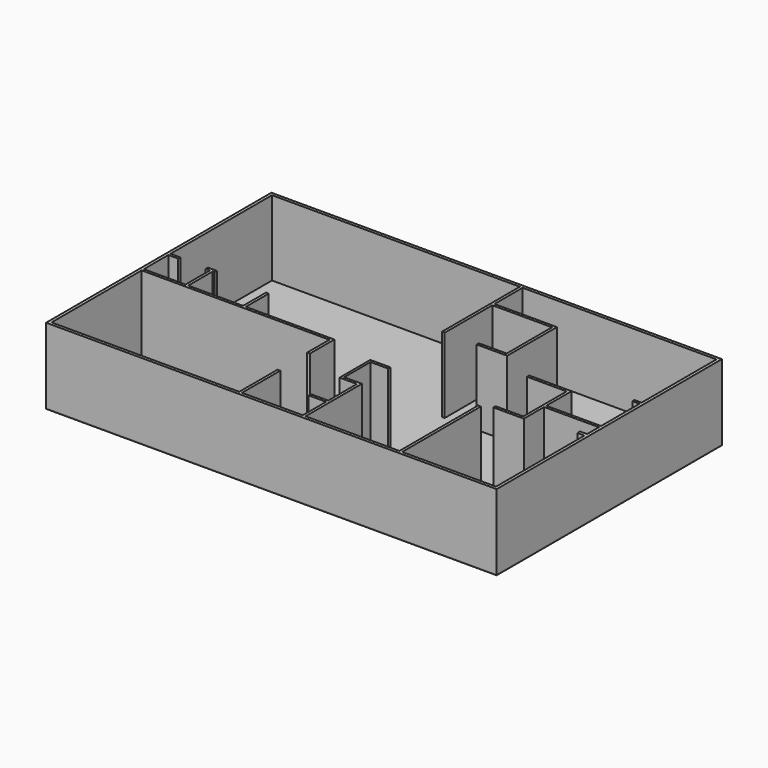
from build123d import *

# Parameters (mm, degrees)
F0_W     = 14630.4
F0_H     = 9144
F1_DEPTH = 25.4
F2_W     = 14630.4
F2_H     = 9144
F2_W_2   = 88.9
F2_H_2   = 3194.2168514252
F2_H_3   = 1929.7631978989
F2_W_3   = 1779.7346710205
F2_H_4   = 88.9
F2_H_5   = 1554.3824474335
F2_W_4   = 1289.2332969666
F2_H_6   = 1164.2087398529
F2_H_7   = 1141.2822940826
F2_H_8   = 994.9972226143
F2_H_9   = 943.2841579437
F2_W_5   = 77.8362154961
F2_H_10  = 1067.5071022034
F2_H_11  = 929.2460680008
F2_W_6   = 903.2808242798
F2_W_7   = 903.0658233643
F2_W_8   = 318.0981277466
F2_W_9   = 229.1255592346
F2_H_12  = 107.0315241814
F2_H_13  = 82.2870731354
F3_DEPTH = 2438.4


with BuildPart() as f1:
    # F0 (on Top) → F1 (new body)
    with BuildSketch(Plane.XY):
        Rectangle(F0_W, F0_H)
    extrude(amount=F1_DEPTH)


with BuildPart() as f3:
    # F2 (on face) → F3 (new body)
    with BuildSketch(Plane.XY.offset(25.4)):
        Rectangle(F2_W, F2_H)
        Polygon((-7216.775, 356.8222226143), (-7216.775, 4473.575), (831.9140672684, 4473.575), (920.8140672684, 4473.575), (7216.775, 4473.575), (7216.775, 1432.7878952026), (7216.775, 1350.5008220673), (7216.775, -209.6492750645), (7216.775, -298.5492750645), (7216.775, -777.0798206329), (7216.775, -884.1113448143), (7216.775, -4473.575), (4168.775, -4473.575), (4079.875, -4473.575), (1031.875, -4473.575), (942.975, -4473.575), (-1031.875, -4473.575), (-1120.775, -4473.575), (-7216.775, -4473.575), (-7216.775, -815.975), (-7216.775, -727.075), (-7216.775, 267.9222226143), align=None, mode=Mode.SUBTRACT)
        Polygon((-5864.2349243164, -727.075), (-7216.775, -727.075), (-7216.775, -815.975), (-1120.775, -815.975), (-1120.775, -727.075), (-3905.3846298218, -727.075), (-3994.2846298218, -727.075), (-5775.3349243164, -727.075), align=None)
        with Locations((4124.325, -2876.4665742874)):
            Rectangle(F2_W_2, F2_H_2)
        Polygon((920.8140672684, 3332.2927059174), (831.9140672684, 3332.2927059174), (831.9140672684, 3243.3927059174), (920.8140672684, 3243.3927059174), (2860.675, 3243.3927059174), (2860.675, 3332.2927059174), align=None)
        Polygon((2949.575, 3332.2927059174), (2860.675, 3332.2927059174), (2860.675, 3243.3927059174), (2860.675, 1402.5295080185), (2860.675, 1313.6295080185), (2949.575, 1313.6295080185), align=None)
        Polygon((5437.0403289795, -298.5492750645), (5437.0403289795, -209.6492750645), (5437.0403289795, 815.975), (5348.1403289795, 815.975), (5348.1403289795, 727.075), (5348.1403289795, -1031.875), (5348.1403289795, -1120.775), (5437.0403289795, -1120.775), align=None)
        with Locations((876.3640672684, 2278.5111069679)):
            Rectangle(F2_W_2, F2_H_3)
        with Locations((6326.9076644897, -254.0992750645)):
            Rectangle(F2_W_3, F2_H_4)
        with Locations((-1076.325, -3696.3837762833)):
            Rectangle(F2_W_2, F2_H_5)
        with Locations((4703.5236804962, 771.525)):
            Rectangle(F2_W_4, F2_H_4)
        with Locations((987.425, -2859.2864721298)):
            Rectangle(F2_W_2, F2_H_6)
        with Locations((876.3640672684, 3902.9338529587)):
            Rectangle(F2_W_2, F2_H_7)
        with Locations((-5819.7849243164, -229.5763886929)):
            Rectangle(F2_W_2, F2_H_8)
        Polygon((-1120.775, -727.075), (-1120.775, -815.975), (-1120.775, -1715.415596962), (-1031.875, -1715.415596962), (-1031.875, -727.075), align=None)
        with Locations((987.425, -4001.9329210281)):
            Rectangle(F2_W_2, F2_H_9)
        with Locations((419.4595217705, -1654.5285511017)):
            Rectangle(F2_W_5, F2_H_10)
        with Locations((-3949.8346298218, -262.4519659996)):
            Rectangle(F2_W_2, F2_H_11)
        with Locations((4896.4999168396, -1076.325)):
            Rectangle(F2_W_6, F2_H_4)
        with Locations((2409.1420883179, 1358.0795080185)):
            Rectangle(F2_W_7, F2_H_4)
        Polygon((380.5414140224, -3530.2908420563), (942.975, -3530.2908420563), (1031.875, -3530.2908420563), (1031.875, -3441.3908420563), (942.975, -3441.3908420563), (380.5414140224, -3441.3908420563), align=None)
        Polygon((942.975, -2277.1821022034), (1031.875, -2277.1821022034), (1031.875, -2188.2821022034), (458.3776295185, -2188.2821022034), (380.5414140224, -2188.2821022034), (380.5414140224, -2277.1821022034), align=None)
        Polygon((380.5414140224, -1120.775), (458.3776295185, -1120.775), (1031.875, -1120.775), (1031.875, -1031.875), (380.5414140224, -1031.875), align=None)
        with Locations((-7057.7259361267, 312.3722226143)):
            Rectangle(F2_W_8, F2_H_4)
        Polygon((-6003.3254623413, 267.9222226143), (-5864.2349243164, 267.9222226143), (-5775.3349243164, 267.9222226143), (-5713.2968902588, 267.9222226143), (-5713.2968902588, 356.8222226143), (-6003.3254623413, 356.8222226143), align=None)
        with Locations((7102.2122203827, -830.5955827236)):
            Rectangle(F2_W_9, F2_H_12)
        with Locations((7102.2122203827, 1391.6443586349)):
            Rectangle(F2_W_9, F2_H_13)
    extrude(amount=F3_DEPTH)


solid = Compound([f1.part, f3.part])
